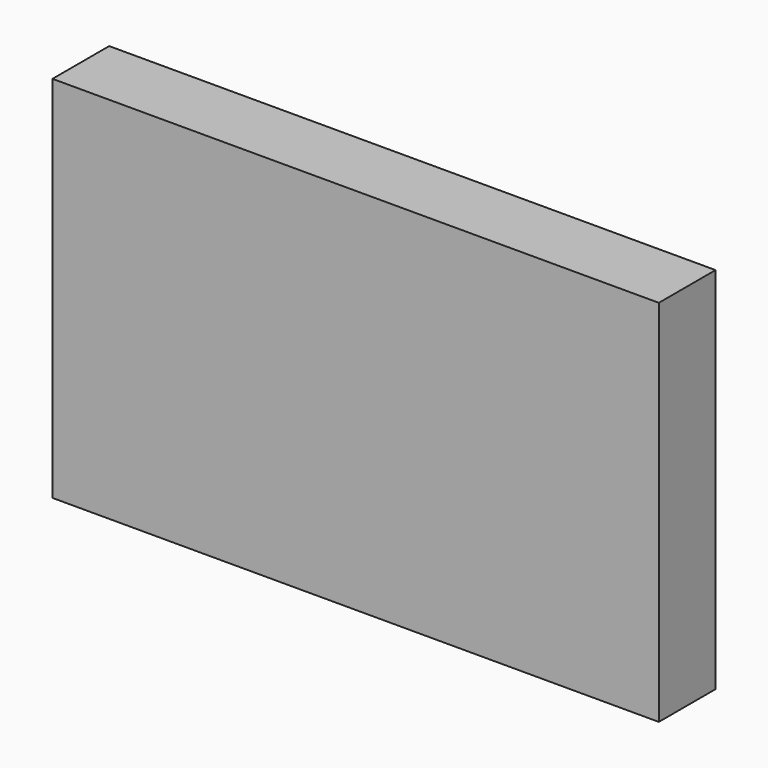
from build123d import *

# Parameters (mm, degrees)
F0_W     = 134.9128484726
F0_H     = 80.1014900208
F1_DEPTH = 13.8260964304
F2_T     = 2.54


with BuildPart() as f1:
    # F0 (on Front) → F1 (new body)
    with BuildSketch(Plane.XZ):
        Rectangle(F0_W, F0_H)
    extrude(amount=F1_DEPTH)

    # F2
    f2_openings = [f1.faces().sort_by_distance(p)[0] for p in [
        (0, 0, 0),
    ]]
    offset(amount=F2_T, openings=f2_openings, kind=Kind.INTERSECTION)


solid = f1.part
